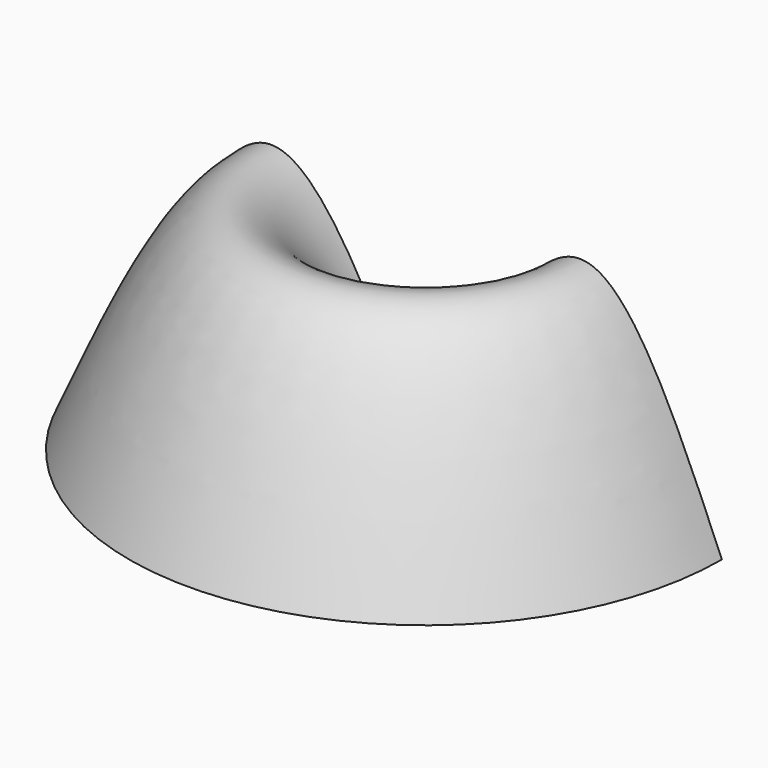
from build123d import *

# Parameters (mm, degrees)
F2_ANGLE = 180


with BuildPart() as f2:
    # F0 (on Front) → F2 (revolve)
    with BuildSketch(Plane.XZ):
        with BuildLine():
            add(Edge.make_bspline(
                [(0, 0), (13.5085244431, 28.1782124971), (40.3309872961, 84.1287392289), (64.1997814328, 27.9069577079), (76.0475993156, 0)],
                knots=[0, 0, 0, 0, 0.5036272962, 1, 1, 1, 1], degree=3))
            Line((0, 0), (76.0475993156, 0))
        make_face()
    revolve(axis=Axis((0, 0, -0.2078749239), (0, 0, -1)), revolution_arc=F2_ANGLE)


solid = f2.part
